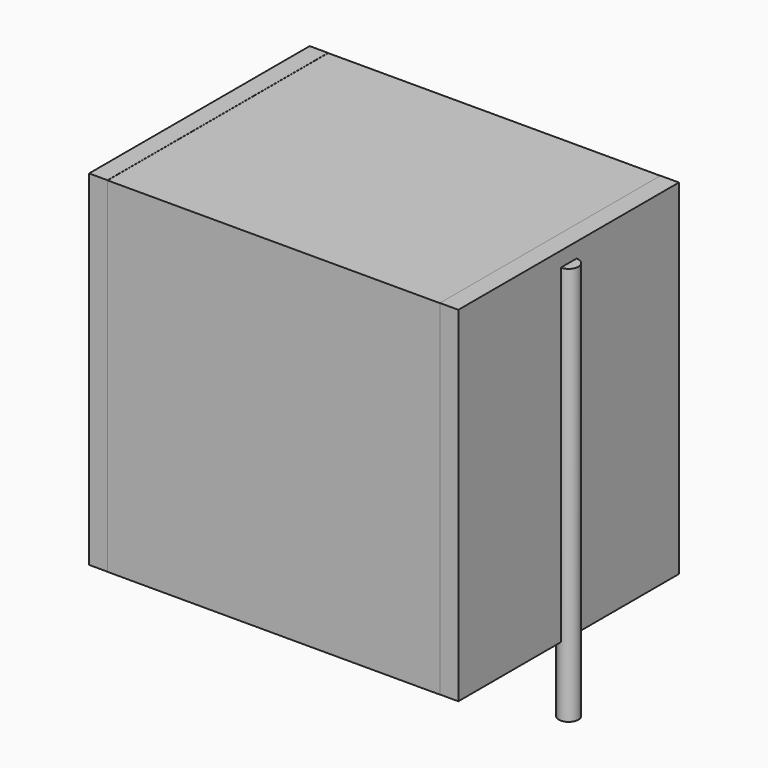
from build123d import *

# Parameters (mm, degrees)
SKETCH_W          = 13.5
SKETCH_H          = 11.2
PAD_DEPTH         = 14
SKETCH001_R       = 0.4
PAD001_DEPTH      = 13
PAD001_DEPTH_BACK = 3.2
SKETCH002_W       = 0.75
SKETCH002_H       = 11.2
PAD002_DEPTH      = 14


with BuildPart() as pad:
    # Sketch → Pad (new body)
    with BuildSketch(Plane.XY.offset(0.1)):
        with Locations((7.5, 0)):
            Rectangle(SKETCH_W, SKETCH_H)
    extrude(amount=PAD_DEPTH)


with BuildPart() as pad001:
    # Sketch001 → Pad001 (new body, two sides)
    with BuildSketch(Plane.XY.offset(0.5)) as pad001_sk:
        Circle(SKETCH001_R)
        with Locations((15, 0)):
            Circle(SKETCH001_R)
    extrude(amount=PAD001_DEPTH)
    extrude(pad001_sk.sketch, amount=-PAD001_DEPTH_BACK)


with BuildPart() as pad002:
    # Sketch002 → Pad002 (new body)
    with BuildSketch(Plane.XY.offset(0.105)):
        with Locations((0.375, 0)):
            Rectangle(SKETCH002_W, SKETCH002_H)
        with Locations((14.625, 0)):
            Rectangle(SKETCH002_W, SKETCH002_H)
    extrude(amount=PAD002_DEPTH)


solid = Compound([pad.part, pad001.part, pad002.part])
